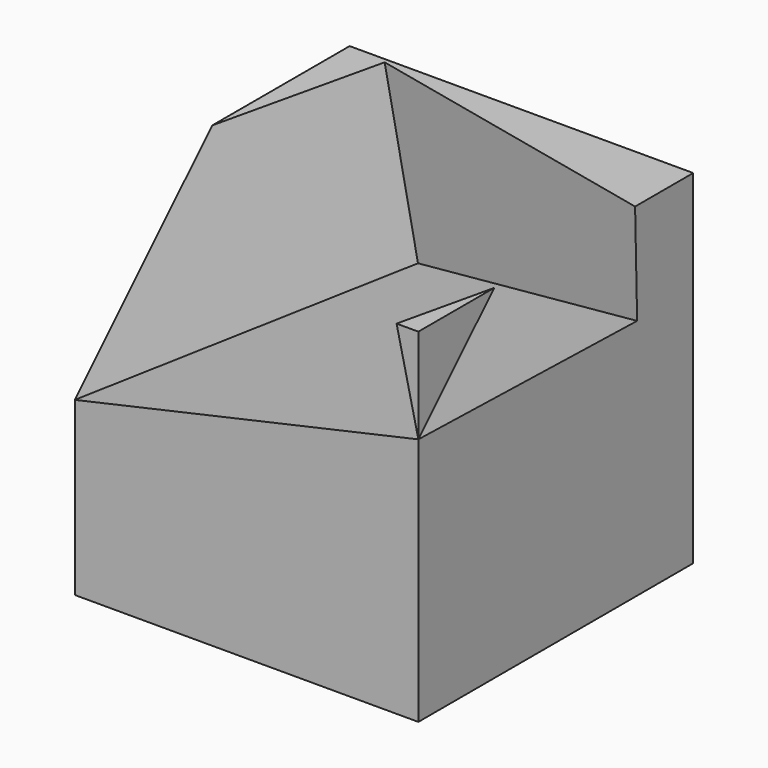
from build123d import *

# Parameters (mm, degrees)
BOX001_W               = 10
BOX001_H               = 10
BOX001_DEPTH           = 10
BOX001_ROLL_ANGLE      = 1.436999
BOX001_PITCH_ANGLE     = -12.621416
BOX001_PLACEMENT_ANGLE = -12.939318
BOX_W                  = 10
BOX_H                  = 10
BOX_DEPTH              = 10


with BuildPart() as cube001:
    # Box001 → Box001 (new body)
    with BuildSketch(Plane.XY):
        with Locations((5, 5)):
            Rectangle(BOX001_W, BOX001_H)
    extrude(amount=BOX001_DEPTH)


with BuildPart() as cube001_1:
    # Box001 roll: moved
    add(cube001.part.rotate(Axis((0, 0, 0), (1, 0, 0)), BOX001_ROLL_ANGLE))


with BuildPart() as cube001_2:
    # Box001 pitch: moved
    add(cube001_1.part.rotate(Axis((0, 0, 0), (0, 1, 0)), BOX001_PITCH_ANGLE))


with BuildPart() as cube001_3:
    # Box001 placement: moved
    add(cube001_2.part.moved(Location((0, 0, 5))).rotate(Axis((0, 0, 5), (0, 0, 1)), BOX001_PLACEMENT_ANGLE))


with BuildPart() as cut:
    # Box → Box (new body)
    with BuildSketch(Plane.XY):
        with Locations((5, 5)):
            Rectangle(BOX_W, BOX_H)
    extrude(amount=BOX_DEPTH)

    # Cut: cut Cube001
    add(cube001_3.part, mode=Mode.SUBTRACT)


solid = cut.part
